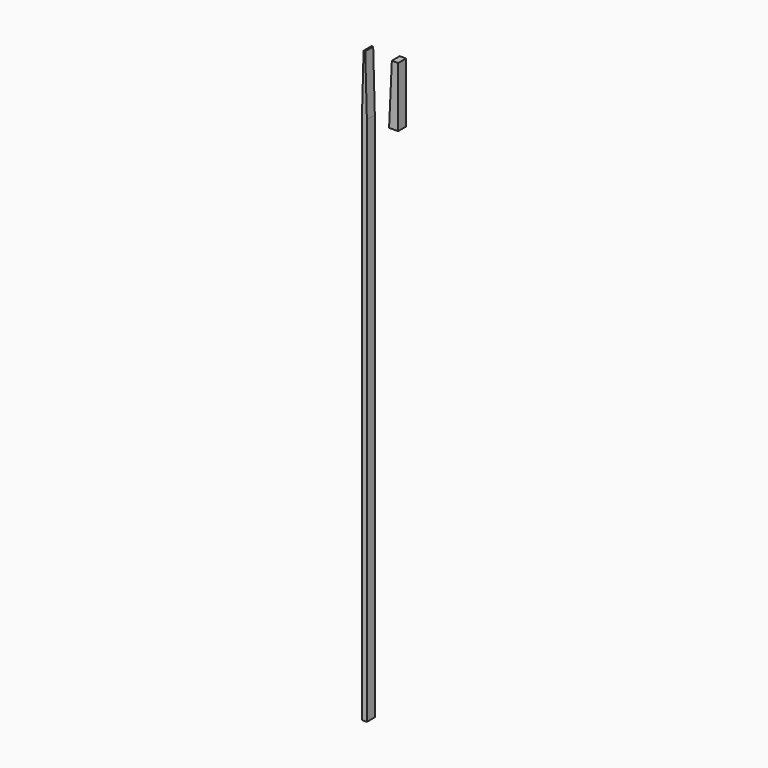
from build123d import *

# Parameters (mm, degrees)
F1_DEPTH = 30
F3_DEPTH = 30


with BuildPart() as f1:
    # F0 (on Front) → F1 (new body)
    with BuildSketch(Plane.XZ):
        Polygon((-7.5, 0), (0, 0), (0, 180), (-2.499944, 180.016729), align=None)
        Polygon((0, 180), (0, 0), (7.5, 0), (2.5, 180), align=None)
        Polygon((7.5, 0), (0, 0), (-7.5, 0), (-7.5, -1600), (7.507107, -1600), (7.507107, 0), align=None)
    extrude(amount=F1_DEPTH)


with BuildPart() as f3:
    # F2 (on Front) → F3 (new body)
    with BuildSketch(Plane.XZ):
        Polygon((82.848303, 181.117684), (74.427694, 0), (101.794675, 0), (101.794675, 181.117684), align=None)
    extrude(amount=F3_DEPTH)


solid = Compound([f1.part, f3.part])
